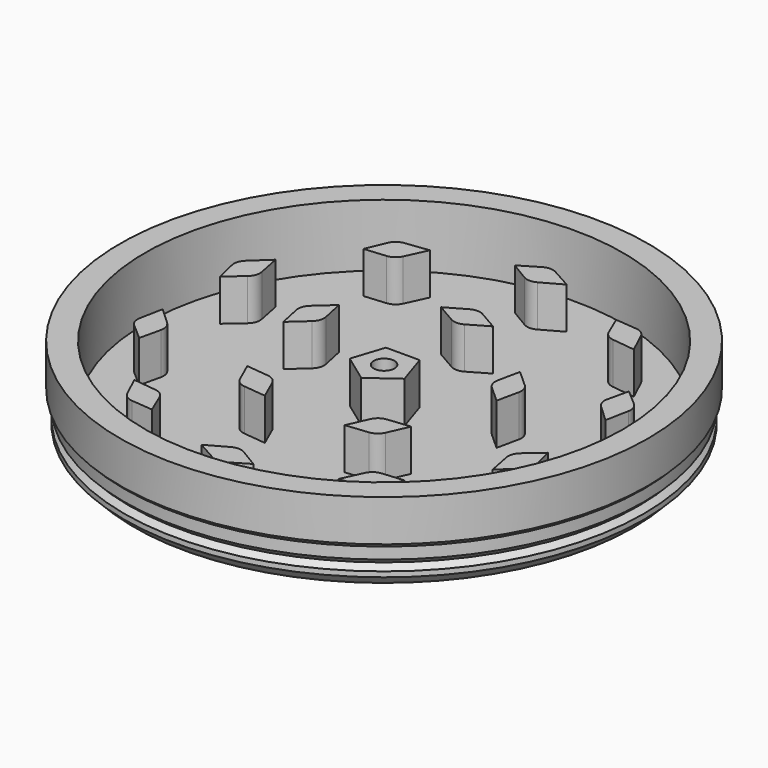
from build123d import *

# Parameters (mm, degrees)
F0_W     = 0.508
F0_H     = 5.08
F3_DEPTH = 7.62
F4_DEPTH = 7.62
F5_SIZE2 = 1.27
F5_SIZE  = 1.27
F6_R     = 1.27
F7_DEPTH = 2.54


with BuildPart() as f1:
    # F0 (on Front) → F1 (revolve)
    with BuildSketch(Plane.XZ):
        Polygon((0, 2.54), (0, 0), (31.75, 0), (31.75, 1.905), (31.115, 2.54), (31.75, 3.175), (31.75, 4.572), (31.75, 5.08), (31.75, 10.16), (29.21, 10.16), (29.21, 2.54), align=None)
        with Locations((32.004, 7.62)):
            Rectangle(F0_W, F0_H)
        Polygon((31.75, 5.08), (31.75, 4.572), (32.258, 5.08), align=None)
    revolve(axis=Axis((0, 0, 16.058525), (0, 0, 1)))

    # F2 (on Top) → F3 (join)
    with BuildSketch(Plane.XY):
        Polygon((2.06324, 2.8575), (-2.06324, 2.8575), (-3.338393, -1.067016), (0, -3.4925), (3.338393, -1.067016), align=None)
        with BuildLine():
            ThreePointArc((0.769589, 25.200985), (-0.027653, 25.399759), (-0.817488, 25.173334))
            Line((-0.817488, 25.173334), (-3.079214, 23.814658))
            Line((-3.079214, 23.814658), (-0.803636, 22.450829))
            ThreePointArc((-0.803636, 22.450829), (-0.011648, 22.225183), (0.786827, 22.426676))
            Line((0.786827, 22.426676), (3.270786, 23.814658))
            Line((3.270786, 23.814658), (0.769589, 25.200985))
        make_face()
        with BuildLine():
            Line((-12.545513, 18.606047), (-11.351783, 21.188983))
            Line((-11.351783, 21.188983), (-14.190157, 20.840378))
            ThreePointArc((-14.190157, 20.840378), (-14.951976, 20.532582), (-15.457876, 19.885148))
            Line((-15.457876, 19.885148), (-16.489041, 17.456547))
            Line((-16.489041, 17.456547), (-13.846421, 17.690737))
            ThreePointArc((-13.846421, 17.690737), (-13.073058, 17.973704), (-12.545513, 18.606047))
        make_face()
        with BuildLine():
            Line((-21.085893, 7.678541), (-21.638357, 10.469837))
            Line((-21.638357, 10.469837), (-23.729745, 8.519455))
            ThreePointArc((-23.729745, 8.519455), (-24.165152, 7.822657), (-24.193881, 7.001511))
            Line((-24.193881, 7.001511), (-23.600615, 4.430628))
            Line((-23.600615, 4.430628), (-21.600345, 6.173385))
            ThreePointArc((-21.600345, 6.173385), (-21.141005, 6.856882), (-21.085893, 7.678541))
        make_face()
        with BuildLine():
            Line((-21.572179, -6.181907), (-23.659814, -4.248432))
            Line((-23.659814, -4.248432), (-24.205377, -7.05561))
            ThreePointArc((-24.205377, -7.05561), (-24.148061, -7.875257), (-23.688646, -8.556465))
            Line((-23.688646, -8.556465), (-21.697556, -10.287641))
            Line((-21.697556, -10.287641), (-21.10367, -7.701991))
            ThreePointArc((-21.10367, -7.701991), (-21.133806, -6.879037), (-21.572179, -6.181907))
        make_face()
        with BuildLine():
            Line((-13.818626, -17.681076), (-16.644026, -17.343943))
            Line((-16.644026, -17.343943), (-15.435377, -19.935672))
            ThreePointArc((-15.435377, -19.935672), (-14.907232, -20.565091), (-14.135153, -20.846162))
            Line((-14.135153, -20.846162), (-11.506769, -21.07638))
            Line((-11.506769, -21.07638), (-12.546111, -18.635468))
            ThreePointArc((-12.546111, -18.635468), (-13.054212, -17.987397), (-13.818626, -17.681076))
        make_face()
        with BuildLine():
            Line((-0.786827, -22.426676), (-3.270786, -23.814658))
            Line((-3.270786, -23.814658), (-0.769589, -25.200985))
            ThreePointArc((-0.769589, -25.200985), (0.027653, -25.399759), (0.817488, -25.173334))
            Line((0.817488, -25.173334), (3.079214, -23.814658))
            Line((3.079214, -23.814658), (0.803636, -22.450829))
            ThreePointArc((0.803636, -22.450829), (0.011648, -22.225183), (-0.786827, -22.426676))
        make_face()
        with BuildLine():
            Line((12.545513, -18.606047), (11.351783, -21.188983))
            Line((11.351783, -21.188983), (14.190157, -20.840378))
            ThreePointArc((14.190157, -20.840378), (14.951976, -20.532582), (15.457876, -19.885148))
            Line((15.457876, -19.885148), (16.489041, -17.456547))
            Line((16.489041, -17.456547), (13.846421, -17.690737))
            ThreePointArc((13.846421, -17.690737), (13.073058, -17.973704), (12.545513, -18.606047))
        make_face()
        with BuildLine():
            Line((21.085893, -7.678541), (21.638357, -10.469837))
            Line((21.638357, -10.469837), (23.729745, -8.519455))
            ThreePointArc((23.729745, -8.519455), (24.165152, -7.822657), (24.193881, -7.001511))
            Line((24.193881, -7.001511), (23.600615, -4.430628))
            Line((23.600615, -4.430628), (21.600345, -6.173385))
            ThreePointArc((21.600345, -6.173385), (21.141005, -6.856882), (21.085893, -7.678541))
        make_face()
        with BuildLine():
            Line((21.572179, 6.181907), (23.659814, 4.248432))
            Line((23.659814, 4.248432), (24.205377, 7.05561))
            ThreePointArc((24.205377, 7.05561), (24.148061, 7.875257), (23.688646, 8.556465))
            Line((23.688646, 8.556465), (21.697556, 10.287641))
            Line((21.697556, 10.287641), (21.10367, 7.701991))
            ThreePointArc((21.10367, 7.701991), (21.133806, 6.879037), (21.572179, 6.181907))
        make_face()
        with BuildLine():
            Line((13.818626, 17.681076), (16.644026, 17.343943))
            Line((16.644026, 17.343943), (15.435377, 19.935672))
            ThreePointArc((15.435377, 19.935672), (14.907232, 20.565091), (14.135153, 20.846162))
            Line((14.135153, 20.846162), (11.506769, 21.07638))
            Line((11.506769, 21.07638), (12.546111, 18.635468))
            ThreePointArc((12.546111, 18.635468), (13.054212, 17.987397), (13.818626, 17.681076))
        make_face()
        with BuildLine():
            Line((-0.79375, 14.043128), (-3.175, 12.668313))
            Line((-3.175, 12.668313), (-0.79375, 11.293497))
            ThreePointArc((-0.79375, 11.293497), (0, 11.080813), (0.79375, 11.293497))
            Line((0.79375, 11.293497), (3.175, 12.668313))
            Line((3.175, 12.668313), (0.79375, 14.043128))
            ThreePointArc((0.79375, 14.043128), (0, 14.255813), (-0.79375, 14.043128))
        make_face()
        with BuildLine():
            Line((-10.495472, 4.244784), (-11.067152, 6.934328))
            Line((-11.067152, 6.934328), (-13.110526, 5.094466))
            ThreePointArc((-13.110526, 5.094466), (-13.558083, 4.405288), (-13.601091, 3.584664))
            Line((-13.601091, 3.584664), (-13.02941, 0.895119))
            Line((-13.02941, 0.895119), (-10.986036, 2.734981))
            ThreePointArc((-10.986036, 2.734981), (-10.538479, 3.424159), (-10.495472, 4.244784))
        make_face()
        with BuildLine():
            Line((-7.280308, -8.670077), (-10.014876, -8.382662))
            Line((-10.014876, -8.382662), (-8.896501, -10.894575))
            ThreePointArc((-8.896501, -10.894575), (-8.379356, -11.533195), (-7.612186, -11.827684))
            Line((-7.612186, -11.827684), (-4.877618, -12.115098))
            Line((-4.877618, -12.115098), (-5.995994, -9.603186))
            ThreePointArc((-5.995994, -9.603186), (-6.513138, -8.964566), (-7.280308, -8.670077))
        make_face()
        with BuildLine():
            Line((5.995994, -9.603186), (4.877618, -12.115098))
            Line((4.877618, -12.115098), (7.612186, -11.827684))
            ThreePointArc((7.612186, -11.827684), (8.379356, -11.533195), (8.896501, -10.894575))
            Line((8.896501, -10.894575), (10.014876, -8.382662))
            Line((10.014876, -8.382662), (7.280308, -8.670077))
            ThreePointArc((7.280308, -8.670077), (6.513138, -8.964566), (5.995994, -9.603186))
        make_face()
        with BuildLine():
            Line((10.986036, 2.734981), (13.02941, 0.895119))
            Line((13.02941, 0.895119), (13.601091, 3.584664))
            ThreePointArc((13.601091, 3.584664), (13.558083, 4.405288), (13.110526, 5.094466))
            Line((13.110526, 5.094466), (11.067152, 6.934328))
            Line((11.067152, 6.934328), (10.495472, 4.244784))
            ThreePointArc((10.495472, 4.244784), (10.538479, 3.424159), (10.986036, 2.734981))
        make_face()
    extrude(amount=F3_DEPTH)

    # F2 (on Top) → F4 (join)
    with BuildSketch(Plane.XY):
        Polygon((2.06324, 2.8575), (-2.06324, 2.8575), (-3.338393, -1.067016), (0, -3.4925), (3.338393, -1.067016), align=None)
        with BuildLine():
            ThreePointArc((0.769589, 25.200985), (-0.027653, 25.399759), (-0.817488, 25.173334))
            Line((-0.817488, 25.173334), (-3.079214, 23.814658))
            Line((-3.079214, 23.814658), (-0.803636, 22.450829))
            ThreePointArc((-0.803636, 22.450829), (-0.011648, 22.225183), (0.786827, 22.426676))
            Line((0.786827, 22.426676), (3.270786, 23.814658))
            Line((3.270786, 23.814658), (0.769589, 25.200985))
        make_face()
        with BuildLine():
            Line((-12.545513, 18.606047), (-11.351783, 21.188983))
            Line((-11.351783, 21.188983), (-14.190157, 20.840378))
            ThreePointArc((-14.190157, 20.840378), (-14.951976, 20.532582), (-15.457876, 19.885148))
            Line((-15.457876, 19.885148), (-16.489041, 17.456547))
            Line((-16.489041, 17.456547), (-13.846421, 17.690737))
            ThreePointArc((-13.846421, 17.690737), (-13.073058, 17.973704), (-12.545513, 18.606047))
        make_face()
        with BuildLine():
            Line((-21.085893, 7.678541), (-21.638357, 10.469837))
            Line((-21.638357, 10.469837), (-23.729745, 8.519455))
            ThreePointArc((-23.729745, 8.519455), (-24.165152, 7.822657), (-24.193881, 7.001511))
            Line((-24.193881, 7.001511), (-23.600615, 4.430628))
            Line((-23.600615, 4.430628), (-21.600345, 6.173385))
            ThreePointArc((-21.600345, 6.173385), (-21.141005, 6.856882), (-21.085893, 7.678541))
        make_face()
        with BuildLine():
            Line((-21.572179, -6.181907), (-23.659814, -4.248432))
            Line((-23.659814, -4.248432), (-24.205377, -7.05561))
            ThreePointArc((-24.205377, -7.05561), (-24.148061, -7.875257), (-23.688646, -8.556465))
            Line((-23.688646, -8.556465), (-21.697556, -10.287641))
            Line((-21.697556, -10.287641), (-21.10367, -7.701991))
            ThreePointArc((-21.10367, -7.701991), (-21.133806, -6.879037), (-21.572179, -6.181907))
        make_face()
        with BuildLine():
            Line((-13.818626, -17.681076), (-16.644026, -17.343943))
            Line((-16.644026, -17.343943), (-15.435377, -19.935672))
            ThreePointArc((-15.435377, -19.935672), (-14.907232, -20.565091), (-14.135153, -20.846162))
            Line((-14.135153, -20.846162), (-11.506769, -21.07638))
            Line((-11.506769, -21.07638), (-12.546111, -18.635468))
            ThreePointArc((-12.546111, -18.635468), (-13.054212, -17.987397), (-13.818626, -17.681076))
        make_face()
        with BuildLine():
            Line((-0.786827, -22.426676), (-3.270786, -23.814658))
            Line((-3.270786, -23.814658), (-0.769589, -25.200985))
            ThreePointArc((-0.769589, -25.200985), (0.027653, -25.399759), (0.817488, -25.173334))
            Line((0.817488, -25.173334), (3.079214, -23.814658))
            Line((3.079214, -23.814658), (0.803636, -22.450829))
            ThreePointArc((0.803636, -22.450829), (0.011648, -22.225183), (-0.786827, -22.426676))
        make_face()
        with BuildLine():
            Line((12.545513, -18.606047), (11.351783, -21.188983))
            Line((11.351783, -21.188983), (14.190157, -20.840378))
            ThreePointArc((14.190157, -20.840378), (14.951976, -20.532582), (15.457876, -19.885148))
            Line((15.457876, -19.885148), (16.489041, -17.456547))
            Line((16.489041, -17.456547), (13.846421, -17.690737))
            ThreePointArc((13.846421, -17.690737), (13.073058, -17.973704), (12.545513, -18.606047))
        make_face()
        with BuildLine():
            Line((21.085893, -7.678541), (21.638357, -10.469837))
            Line((21.638357, -10.469837), (23.729745, -8.519455))
            ThreePointArc((23.729745, -8.519455), (24.165152, -7.822657), (24.193881, -7.001511))
            Line((24.193881, -7.001511), (23.600615, -4.430628))
            Line((23.600615, -4.430628), (21.600345, -6.173385))
            ThreePointArc((21.600345, -6.173385), (21.141005, -6.856882), (21.085893, -7.678541))
        make_face()
        with BuildLine():
            Line((21.572179, 6.181907), (23.659814, 4.248432))
            Line((23.659814, 4.248432), (24.205377, 7.05561))
            ThreePointArc((24.205377, 7.05561), (24.148061, 7.875257), (23.688646, 8.556465))
            Line((23.688646, 8.556465), (21.697556, 10.287641))
            Line((21.697556, 10.287641), (21.10367, 7.701991))
            ThreePointArc((21.10367, 7.701991), (21.133806, 6.879037), (21.572179, 6.181907))
        make_face()
        with BuildLine():
            Line((13.818626, 17.681076), (16.644026, 17.343943))
            Line((16.644026, 17.343943), (15.435377, 19.935672))
            ThreePointArc((15.435377, 19.935672), (14.907232, 20.565091), (14.135153, 20.846162))
            Line((14.135153, 20.846162), (11.506769, 21.07638))
            Line((11.506769, 21.07638), (12.546111, 18.635468))
            ThreePointArc((12.546111, 18.635468), (13.054212, 17.987397), (13.818626, 17.681076))
        make_face()
        with BuildLine():
            Line((-0.79375, 14.043128), (-3.175, 12.668313))
            Line((-3.175, 12.668313), (-0.79375, 11.293497))
            ThreePointArc((-0.79375, 11.293497), (0, 11.080813), (0.79375, 11.293497))
            Line((0.79375, 11.293497), (3.175, 12.668313))
            Line((3.175, 12.668313), (0.79375, 14.043128))
            ThreePointArc((0.79375, 14.043128), (0, 14.255813), (-0.79375, 14.043128))
        make_face()
        with BuildLine():
            Line((-10.495472, 4.244784), (-11.067152, 6.934328))
            Line((-11.067152, 6.934328), (-13.110526, 5.094466))
            ThreePointArc((-13.110526, 5.094466), (-13.558083, 4.405288), (-13.601091, 3.584664))
            Line((-13.601091, 3.584664), (-13.02941, 0.895119))
            Line((-13.02941, 0.895119), (-10.986036, 2.734981))
            ThreePointArc((-10.986036, 2.734981), (-10.538479, 3.424159), (-10.495472, 4.244784))
        make_face()
        with BuildLine():
            Line((-7.280308, -8.670077), (-10.014876, -8.382662))
            Line((-10.014876, -8.382662), (-8.896501, -10.894575))
            ThreePointArc((-8.896501, -10.894575), (-8.379356, -11.533195), (-7.612186, -11.827684))
            Line((-7.612186, -11.827684), (-4.877618, -12.115098))
            Line((-4.877618, -12.115098), (-5.995994, -9.603186))
            ThreePointArc((-5.995994, -9.603186), (-6.513138, -8.964566), (-7.280308, -8.670077))
        make_face()
        with BuildLine():
            Line((5.995994, -9.603186), (4.877618, -12.115098))
            Line((4.877618, -12.115098), (7.612186, -11.827684))
            ThreePointArc((7.612186, -11.827684), (8.379356, -11.533195), (8.896501, -10.894575))
            Line((8.896501, -10.894575), (10.014876, -8.382662))
            Line((10.014876, -8.382662), (7.280308, -8.670077))
            ThreePointArc((7.280308, -8.670077), (6.513138, -8.964566), (5.995994, -9.603186))
        make_face()
        with BuildLine():
            Line((10.986036, 2.734981), (13.02941, 0.895119))
            Line((13.02941, 0.895119), (13.601091, 3.584664))
            ThreePointArc((13.601091, 3.584664), (13.558083, 4.405288), (13.110526, 5.094466))
            Line((13.110526, 5.094466), (11.067152, 6.934328))
            Line((11.067152, 6.934328), (10.495472, 4.244784))
            ThreePointArc((10.495472, 4.244784), (10.538479, 3.424159), (10.986036, 2.734981))
        make_face()
    extrude(amount=F4_DEPTH)

    # F5
    f5_edges = [f1.edges().sort_by_distance(p)[0] for p in [
        (-31.75, 0, 0),
    ]]
    chamfer(f5_edges, length=F5_SIZE, length2=F5_SIZE2)

    # F6 (on face) → F7 (cut)
    with BuildSketch(Plane.XY.offset(7.62)):
        Circle(F6_R)
    extrude(amount=-F7_DEPTH, mode=Mode.SUBTRACT)


solid = f1.part
